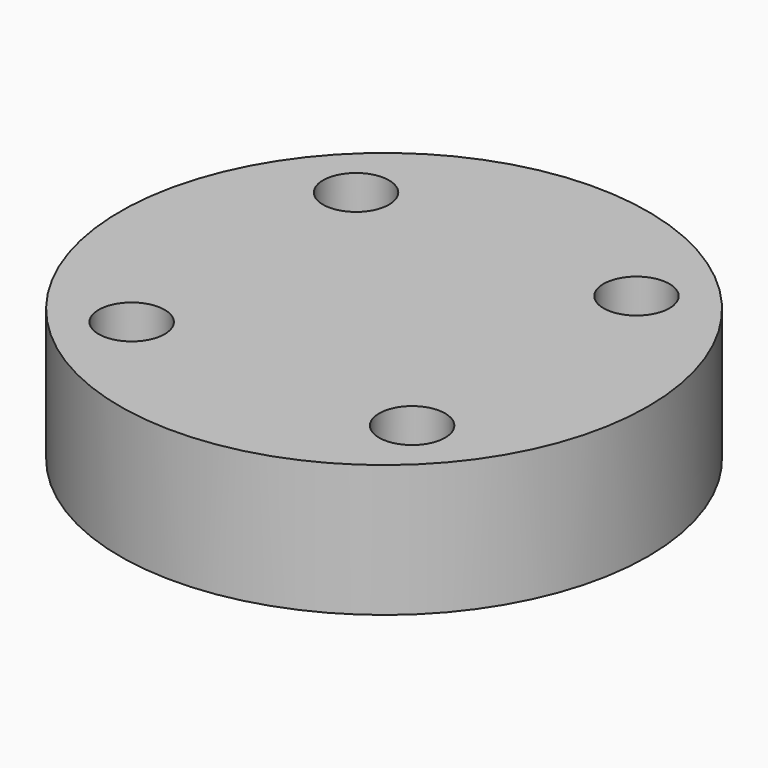
from build123d import *

# Parameters (mm, degrees)
CYLINDER1161_R     = 1
CYLINDER1161_DEPTH = 20
CYLINDER1166_R     = 1
CYLINDER1166_DEPTH = 20
CYLINDER1156_R     = 1
CYLINDER1156_DEPTH = 20
CYLINDER1168_R     = 1
CYLINDER1168_DEPTH = 20
CYLINDER1153_R     = 8
CYLINDER1153_DEPTH = 4


with BuildPart() as obj1:
    # Cylinder1161 → Cylinder1161 (new body)
    with BuildSketch(Plane(origin=(4.25, -4.25, -88), x_dir=(0, 1, 0), z_dir=(0, 0, 1))):
        Circle(CYLINDER1161_R)
    extrude(amount=CYLINDER1161_DEPTH)


with BuildPart() as obj2:
    # Cylinder1166 → Cylinder1166 (new body)
    with BuildSketch(Plane(origin=(4.25, 4.25, -88), x_dir=(-1, 0, 0), z_dir=(0, 0, 1))):
        Circle(CYLINDER1166_R)
    extrude(amount=CYLINDER1166_DEPTH)


with BuildPart() as obj3:
    # Cylinder1156 → Cylinder1156 (new body)
    with BuildSketch(Plane(origin=(-4.25, 4.25, -88), x_dir=(0, -1, 0), z_dir=(0, 0, 1))):
        Circle(CYLINDER1156_R)
    extrude(amount=CYLINDER1156_DEPTH)


with BuildPart() as compound887:
    # Cylinder1168 → Cylinder1168 (new body)
    with BuildSketch(Plane(origin=(-4.25, -4.25, -88), x_dir=(1, 0, 0), z_dir=(0, 0, 1))):
        Circle(CYLINDER1168_R)
    extrude(amount=CYLINDER1168_DEPTH)

    # Compound887: union obj1, obj2, obj3
    add(obj1.part)
    add(obj2.part)
    add(obj3.part)


with BuildPart() as compound887_1:
    # Compound887 placement: moved
    add(compound887.part.moved(Location((0, 0, 91))))


with BuildPart() as cut435:
    # Cylinder1153 → Cylinder1153 (new body)
    with BuildSketch(Plane.XY.offset(15)):
        Circle(CYLINDER1153_R)
    extrude(amount=CYLINDER1153_DEPTH)

    # Cut435: cut Compound887
    add(compound887_1.part, mode=Mode.SUBTRACT)


solid = cut435.part
